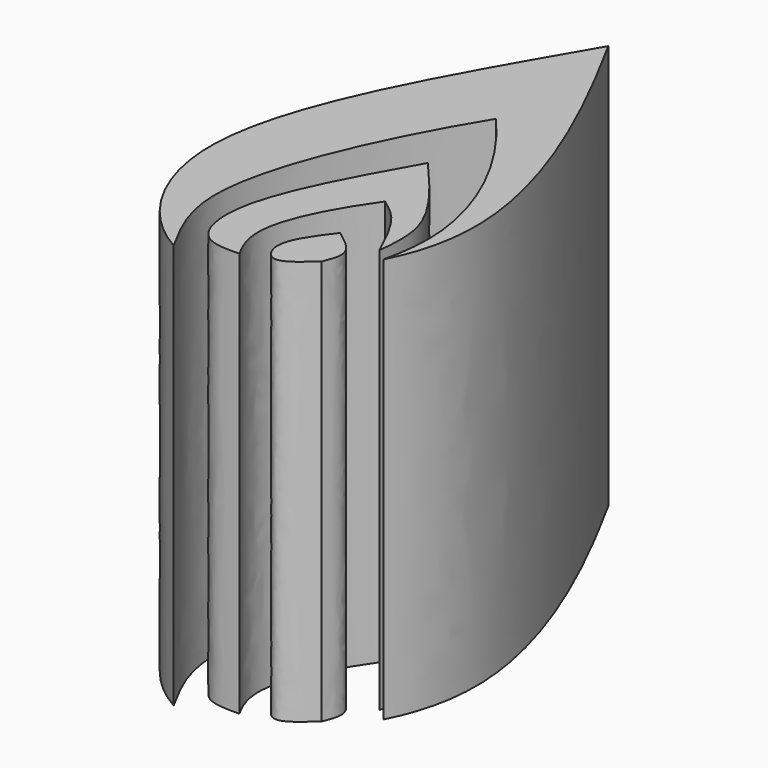
from build123d import *

# Parameters (mm, degrees)
F1_DEPTH = 25


with BuildPart() as f1:
    # F0 (on Top) → F1 (new body)
    with BuildSketch(Plane.XY):
        with BuildLine():
            add(Edge.make_bspline(
                [(-20.7061469555, 16.4344552904), (-19.1591746798, 14.6528130839), (-16.4811611661, 11.5685548971), (-16.7294171966, 8.9619053509), (-16.8342664838, 7.861004211)],
                knots=[0, 0, 0, 0, 0.5776566353, 1, 1, 1, 1], degree=3))
            add(Edge.make_bspline(
                [(-20.7061469555, 16.4344552904), (-22.5929795945, 13.0733857486), (-25.5691755523, 7.7718018255), (-24.5494545724, 3.3112060098), (-22.7075583132, 3.3496265036), (-21.8815393746, 3.366856603)],
                knots=[0, 0, 0, 0, 0.4885677764, 0.7706425102, 1, 1, 1, 1], degree=3))
            add(Edge.make_bspline(
                [(-19.8073182255, 12.0094493032), (-20.9002914306, 10.4606493601), (-22.6311950908, 7.4484306138), (-22.7803699672, 4.887952935), (-21.8815393746, 3.366856603)],
                knots=[0, 0, 0, 0, 0.5331695338, 1, 1, 1, 1], degree=3))
            add(Edge.make_bspline(
                [(-16.8342664838, 7.861004211), (-17.3401036173, 8.9474453341), (-18.225119819, 10.8482903539), (-19.3327582175, 11.6611746506), (-19.8073182255, 12.0094493032)],
                knots=[0, 0, 0, 0, 0.5715569191, 1, 1, 1, 1], degree=3))
        make_face()
    extrude(amount=F1_DEPTH)


with BuildPart() as f1b:
    # F0 (on Top) → F1, piece 2 (new body)
    with BuildSketch(Plane.XY):
        with BuildLine():
            add(Edge.make_bspline(
                [(-19.4447916001, 8.0927079543), (-18.8119530705, 7.627226052), (-17.6455276569, 6.7692664068), (-18.0835286407, 5.69738537), (-18.2838942856, 5.2070482634)],
                knots=[0, 0, 0, 0, 0.5425452174, 1, 1, 1, 1], degree=3))
            add(Edge.make_bspline(
                [(-18.2838942856, 5.2070482634), (-18.9934483277, 4.5599760742), (-20.2573749934, 3.4073481615), (-21.4581117132, 5.4414249695), (-20.2031736614, 7.094016568), (-19.4447916001, 8.0927079543)],
                knots=[0, 0, 0, 0, 0.3361841626, 0.5988439252, 1, 1, 1, 1], degree=3))
        make_face()
    extrude(amount=F1_DEPTH)


with BuildPart() as f1c:
    # F0 (on Top) → F1, piece 3 (new body)
    with BuildSketch(Plane.XY):
        with BuildLine():
            add(Edge.make_bspline(
                [(-21.5364079922, 31.3943661749), (-18.8223791321, 26.453914754), (-14.5529853201, 17.5787333628), (-14.458286576, 10.4017192498), (-16.0886440426, 7.2315796278)],
                knots=[0, 0, 0, 0, 0.5563391757, 1, 1, 1, 1], degree=3))
            add(Edge.make_bspline(
                [(-21.5364079922, 31.3943661749), (-25.9413516483, 23.8123130141), (-33.0457412626, 11.8537808402), (-27.7093816549, 3.6200170871), (-24.893226102, 2.0532754716)],
                knots=[0, 0, 0, 0, 0.5960190783, 1, 1, 1, 1], degree=3))
            add(Edge.make_bspline(
                [(-24.893226102, 2.0532754716), (-25.8090688548, 3.7216586826), (-28.1394130509, 7.9437440431), (-23.9900499582, 17.2232724726), (-21.0201647133, 22.088829428)],
                knots=[0, 0, 0, 0, 0.3817066551, 1, 1, 1, 1], degree=3))
            add(Edge.make_bspline(
                [(-21.0201647133, 22.088829428), (-17.7343320101, 18.2974878699), (-15.2859570615, 12.3266708745), (-15.7761164771, 8.6500617784), (-16.0886440426, 7.2315796278)],
                knots=[0, 0, 0, 0, 0.6115935899, 1, 1, 1, 1], degree=3))
        make_face()
    extrude(amount=F1_DEPTH)


solid = Compound([f1.part, f1b.part, f1c.part])
